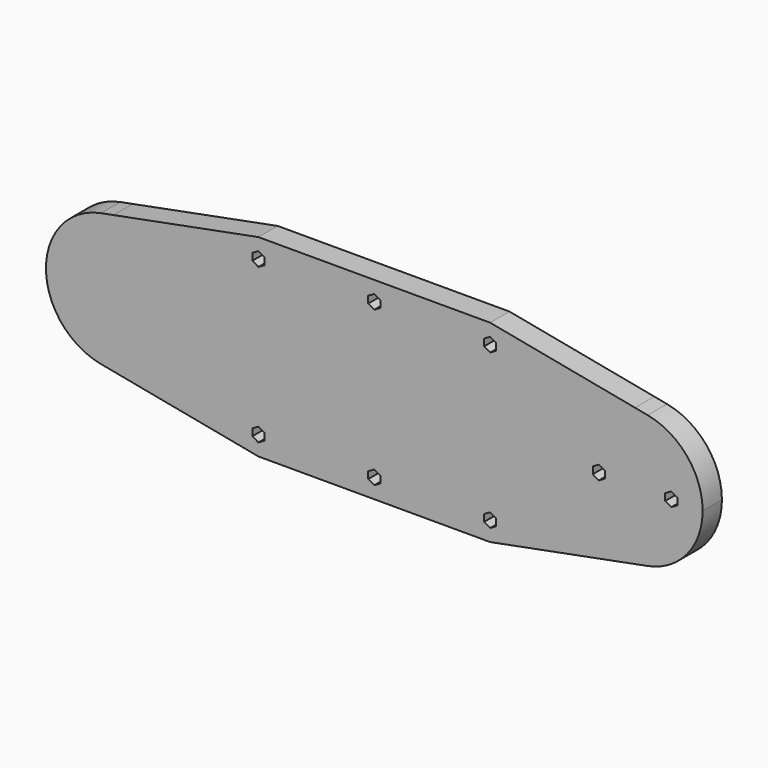
from build123d import *

# Parameters (mm, degrees)
F1_DEPTH = 6.35


with BuildPart() as f1:
    # F0 (on Front) → F1 (new body)
    with BuildSketch(Plane.XZ):
        with BuildLine():
            Line((68.58, 18.1031430027), (30.48, 25.4))
            Line((30.48, 25.4), (-30.48, 25.4))
            Line((-30.48, 25.4), (-68.58, 18.1031430027))
            Line((-68.58, 18.1031430027), (-68.58, 17.78))
            ThreePointArc((-68.58, 17.78), (-65.5387583202, 17.5179693185), (-62.5871565312, 16.7396005675))
            Line((-62.5871565312, 16.7396005675), (-61.5696, 17.3270871047))
            Line((-61.5696, 17.3270871047), (-59.9821, 16.4105435523))
            Line((-59.9821, 16.4105435523), (-59.9821, 15.5629211779))
            ThreePointArc((-59.9821, 15.5629211779), (-53.2666224823, 9.0348696172), (-50.8, 0))
            ThreePointArc((-50.8, 0), (-53.2666224823, -9.0348696172), (-59.9821, -15.5629211779))
            Line((-59.9821, -15.5629211779), (-59.9821, -16.4105435523))
            Line((-59.9821, -16.4105435523), (-61.5696, -17.3270871047))
            Line((-61.5696, -17.3270871047), (-62.5871565312, -16.7396005675))
            ThreePointArc((-62.5871565312, -16.7396005675), (-65.5387583202, -17.5179693185), (-68.58, -17.78))
            Line((-68.58, -17.78), (-68.58, -18.1031430027))
            Line((-68.58, -18.1031430027), (-30.48, -25.4))
            Line((-30.48, -25.4), (30.48, -25.4))
            Line((30.48, -25.4), (68.58, -18.1031430027))
            Line((68.58, -18.1031430027), (68.58, -17.78))
            ThreePointArc((68.58, -17.78), (50.8, 0), (68.58, 17.78))
            Line((68.58, 17.78), (68.58, 18.1031430027))
        make_face()
        Polygon((-30.48, -18.4869128953), (-28.8925, -19.4034564477), (-28.8925, -21.2365435523), (-30.48, -22.1530871047), (-32.0675, -21.2365435523), (-32.0675, -19.4034564477), align=None, mode=Mode.SUBTRACT)
        Polygon((-19.05, -15.9469128953), (-17.4625, -16.8634564477), (-17.4625, -18.6965435523), (-19.05, -19.6130871047), (-20.6375, -18.6965435523), (-20.6375, -16.8634564477), align=None, mode=Mode.SUBTRACT)
        Polygon((-48.1514023938, -5.9139128953), (-46.5639023938, -6.8304564477), (-46.5639023938, -8.6635435523), (-48.1514023938, -9.5800871047), (-49.7389023938, -8.6635435523), (-49.7389023938, -6.8304564477), align=None, mode=Mode.SUBTRACT)
        Polygon((0, -18.4869128953), (1.5875, -19.4034564477), (1.5875, -21.2365435523), (0, -22.1530871047), (-1.5875, -21.2365435523), (-1.5875, -19.4034564477), align=None, mode=Mode.SUBTRACT)
        Polygon((30.48, -22.1530871047), (28.8925, -21.2365435523), (28.8925, -19.4034564477), (30.48, -18.4869128953), (32.0675, -19.4034564477), (32.0675, -21.2365435523), align=None, mode=Mode.SUBTRACT)
        Polygon((19.05, -19.6130871047), (17.4625, -18.6965435523), (17.4625, -16.8634564477), (19.05, -15.9469128953), (20.6375, -16.8634564477), (20.6375, -18.6965435523), align=None, mode=Mode.SUBTRACT)
        Polygon((-48.1514023938, 9.5800871047), (-46.5639023938, 8.6635435523), (-46.5639023938, 6.8304564477), (-48.1514023938, 5.9139128953), (-49.7389023938, 6.8304564477), (-49.7389023938, 8.6635435523), align=None, mode=Mode.SUBTRACT)
        Polygon((-19.05, 19.6130871047), (-17.4625, 18.6965435523), (-17.4625, 16.8634564477), (-19.05, 15.9469128953), (-20.6375, 16.8634564477), (-20.6375, 18.6965435523), align=None, mode=Mode.SUBTRACT)
        Polygon((-30.48, 22.1530871047), (-28.8925, 21.2365435523), (-28.8925, 19.4034564477), (-30.48, 18.4869128953), (-32.0675, 19.4034564477), (-32.0675, 21.2365435523), align=None, mode=Mode.SUBTRACT)
        Polygon((19.05, 19.6130871047), (20.6375, 18.6965435523), (20.6375, 16.8634564477), (19.05, 15.9469128953), (17.4625, 16.8634564477), (17.4625, 18.6965435523), align=None, mode=Mode.SUBTRACT)
        Polygon((0, 22.1530871047), (1.5875, 21.2365435523), (1.5875, 19.4034564477), (0, 18.4869128953), (-1.5875, 19.4034564477), (-1.5875, 21.2365435523), align=None, mode=Mode.SUBTRACT)
        Polygon((30.48, 18.4869128953), (28.8925, 19.4034564477), (28.8925, 21.2365435523), (30.48, 22.1530871047), (32.0675, 21.2365435523), (32.0675, 19.4034564477), align=None, mode=Mode.SUBTRACT)
        with BuildLine():
            ThreePointArc((-62.5871565312, 16.7396005675), (-65.5387583202, 17.5179693185), (-68.58, 17.78))
            Line((-68.58, 17.78), (-68.58, 7.3323484187))
            Line((-68.58, 7.3323484187), (-62.23, 3.6661742094))
            Line((-62.23, 3.6661742094), (-62.23, -3.6661742094))
            Line((-62.23, -3.6661742094), (-68.58, -7.3323484187))
            Line((-68.58, -7.3323484187), (-68.58, -17.78))
            ThreePointArc((-68.58, -17.78), (-65.5387583202, -17.5179693185), (-62.5871565312, -16.7396005675))
            Line((-62.5871565312, -16.7396005675), (-63.1571, -16.4105435523))
            Line((-63.1571, -16.4105435523), (-63.1571, -14.5774564477))
            Line((-63.1571, -14.5774564477), (-61.5696, -13.6609128953))
            Line((-61.5696, -13.6609128953), (-59.9821, -14.5774564477))
            Line((-59.9821, -14.5774564477), (-59.9821, -15.5629211779))
            ThreePointArc((-59.9821, -15.5629211779), (-53.2666224823, -9.0348696172), (-50.8, 0))
            ThreePointArc((-50.8, 0), (-53.2666224823, 9.0348696172), (-59.9821, 15.5629211779))
            Line((-59.9821, 15.5629211779), (-59.9821, 14.5774564477))
            Line((-59.9821, 14.5774564477), (-61.5696, 13.6609128953))
            Line((-61.5696, 13.6609128953), (-63.1571, 14.5774564477))
            Line((-63.1571, 14.5774564477), (-63.1571, 16.4105435523))
            Line((-63.1571, 16.4105435523), (-62.5871565312, 16.7396005675))
        make_face()
        with BuildLine():
            Line((-68.58, 7.3323484187), (-68.58, 17.78))
            ThreePointArc((-68.58, 17.78), (-70.259720977, 17.7004784523), (-71.9244167559, 17.4626251338))
            ThreePointArc((-71.9244167559, 17.4626251338), (-86.36, 0), (-71.9244167559, -17.4626251338))
            ThreePointArc((-71.9244167559, -17.4626251338), (-70.259720977, -17.7004784523), (-68.58, -17.78))
            Line((-68.58, -17.78), (-68.58, -7.3323484187))
            Line((-68.58, -7.3323484187), (-74.93, -3.6661742094))
            Line((-74.93, -3.6661742094), (-74.93, 3.6661742094))
            Line((-74.93, 3.6661742094), (-68.58, 7.3323484187))
        make_face()
        Polygon((-74.9877976062, -9.5800871047), (-76.5752976062, -8.6635435523), (-76.5752976062, -6.8304564477), (-74.9877976062, -5.9139128953), (-73.4002976062, -6.8304564477), (-73.4002976062, -8.6635435523), align=None, mode=Mode.SUBTRACT)
        Polygon((-74.9877976062, 9.5800871047), (-73.4002976062, 8.6635435523), (-73.4002976062, 6.8304564477), (-74.9877976062, 5.9139128953), (-76.5752976062, 6.8304564477), (-76.5752976062, 8.6635435523), align=None, mode=Mode.SUBTRACT)
        with BuildLine():
            Line((68.58, -17.78), (68.58, 17.78))
            ThreePointArc((68.58, 17.78), (50.8, 0), (68.58, -17.78))
        make_face()
        Polygon((59.055, -1.8330871047), (57.4675, -0.9165435523), (57.4675, 0.9165435523), (59.055, 1.8330871047), (60.6425, 0.9165435523), (60.6425, -0.9165435523), align=None, mode=Mode.SUBTRACT)
        with BuildLine():
            ThreePointArc((71.9244167559, 17.4626251338), (70.259720977, 17.7004784523), (68.58, 17.78))
            Line((68.58, 17.78), (68.58, -17.78))
            ThreePointArc((68.58, -17.78), (70.259720977, -17.7004784523), (71.9244167559, -17.4626251338))
            ThreePointArc((71.9244167559, -17.4626251338), (82.2838704372, -11.3283862505), (86.36, 0))
            ThreePointArc((86.36, 0), (82.2838704372, 11.3283862505), (71.9244167559, 17.4626251338))
        make_face()
        Polygon((78.105, 1.8330871047), (79.6925, 0.9165435523), (79.6925, -0.9165435523), (78.105, -1.8330871047), (76.5175, -0.9165435523), (76.5175, 0.9165435523), align=None, mode=Mode.SUBTRACT)
        with BuildLine():
            ThreePointArc((-68.58, -17.78), (-70.259720977, -17.7004784523), (-71.9244167559, -17.4626251338))
            Line((-71.9244167559, -17.4626251338), (-68.58, -18.1031430027))
            Line((-68.58, -18.1031430027), (-68.58, -17.78))
        make_face()
        with BuildLine():
            Line((-68.58, 17.78), (-68.58, 18.1031430027))
            Line((-68.58, 18.1031430027), (-71.9244167559, 17.4626251338))
            ThreePointArc((-71.9244167559, 17.4626251338), (-70.259720977, 17.7004784523), (-68.58, 17.78))
        make_face()
        with BuildLine():
            Line((71.9244167559, 17.4626251338), (68.58, 18.1031430027))
            Line((68.58, 18.1031430027), (68.58, 17.78))
            ThreePointArc((68.58, 17.78), (70.259720977, 17.7004784523), (71.9244167559, 17.4626251338))
        make_face()
        with BuildLine():
            ThreePointArc((71.9244167559, -17.4626251338), (70.259720977, -17.7004784523), (68.58, -17.78))
            Line((68.58, -17.78), (68.58, -18.1031430027))
            Line((68.58, -18.1031430027), (71.9244167559, -17.4626251338))
        make_face()
        Polygon((-73.4002976062, 6.8304564477), (-73.4002976062, 8.6635435523), (-74.9877976062, 9.5800871047), (-76.5752976062, 8.6635435523), (-76.5752976062, 6.8304564477), (-74.9877976062, 5.9139128953), align=None)
        Polygon((-76.5752976062, -6.8304564477), (-76.5752976062, -8.6635435523), (-74.9877976062, -9.5800871047), (-73.4002976062, -8.6635435523), (-73.4002976062, -6.8304564477), (-74.9877976062, -5.9139128953), align=None)
        Polygon((-68.58, -7.3323484187), (-68.58, 7.3323484187), (-74.93, 3.6661742094), (-74.93, -3.6661742094), align=None)
        Polygon((-62.23, 3.6661742094), (-68.58, 7.3323484187), (-68.58, -7.3323484187), (-62.23, -3.6661742094), align=None)
        with BuildLine():
            ThreePointArc((-59.9821, 15.5629211779), (-61.260943207, 16.2036973454), (-62.5871565312, 16.7396005675))
            Line((-62.5871565312, 16.7396005675), (-63.1571, 16.4105435523))
            Line((-63.1571, 16.4105435523), (-63.1571, 14.5774564477))
            Line((-63.1571, 14.5774564477), (-61.5696, 13.6609128953))
            Line((-61.5696, 13.6609128953), (-59.9821, 14.5774564477))
            Line((-59.9821, 14.5774564477), (-59.9821, 15.5629211779))
        make_face()
        with BuildLine():
            Line((-61.5696, 17.3270871047), (-62.5871565312, 16.7396005675))
            ThreePointArc((-62.5871565312, 16.7396005675), (-61.260943207, 16.2036973454), (-59.9821, 15.5629211779))
            Line((-59.9821, 15.5629211779), (-59.9821, 16.4105435523))
            Line((-59.9821, 16.4105435523), (-61.5696, 17.3270871047))
        make_face()
        Polygon((-46.5639023938, 6.8304564477), (-46.5639023938, 8.6635435523), (-48.1514023938, 9.5800871047), (-49.7389023938, 8.6635435523), (-49.7389023938, 6.8304564477), (-48.1514023938, 5.9139128953), align=None)
        Polygon((-46.5639023938, -8.6635435523), (-46.5639023938, -6.8304564477), (-48.1514023938, -5.9139128953), (-49.7389023938, -6.8304564477), (-49.7389023938, -8.6635435523), (-48.1514023938, -9.5800871047), align=None)
        with BuildLine():
            Line((-63.1571, -16.4105435523), (-62.5871565312, -16.7396005675))
            ThreePointArc((-62.5871565312, -16.7396005675), (-61.260943207, -16.2036973454), (-59.9821, -15.5629211779))
            Line((-59.9821, -15.5629211779), (-59.9821, -14.5774564477))
            Line((-59.9821, -14.5774564477), (-61.5696, -13.6609128953))
            Line((-61.5696, -13.6609128953), (-63.1571, -14.5774564477))
            Line((-63.1571, -14.5774564477), (-63.1571, -16.4105435523))
        make_face()
        with BuildLine():
            ThreePointArc((-59.9821, -15.5629211779), (-61.260943207, -16.2036973454), (-62.5871565312, -16.7396005675))
            Line((-62.5871565312, -16.7396005675), (-61.5696, -17.3270871047))
            Line((-61.5696, -17.3270871047), (-59.9821, -16.4105435523))
            Line((-59.9821, -16.4105435523), (-59.9821, -15.5629211779))
        make_face()
        Polygon((-17.4625, 16.8634564477), (-17.4625, 18.6965435523), (-19.05, 19.6130871047), (-20.6375, 18.6965435523), (-20.6375, 16.8634564477), (-19.05, 15.9469128953), align=None)
        Polygon((-17.4625, -18.6965435523), (-17.4625, -16.8634564477), (-19.05, -15.9469128953), (-20.6375, -16.8634564477), (-20.6375, -18.6965435523), (-19.05, -19.6130871047), align=None)
        Polygon((17.4625, -16.8634564477), (17.4625, -18.6965435523), (19.05, -19.6130871047), (20.6375, -18.6965435523), (20.6375, -16.8634564477), (19.05, -15.9469128953), align=None)
        Polygon((20.6375, 16.8634564477), (20.6375, 18.6965435523), (19.05, 19.6130871047), (17.4625, 18.6965435523), (17.4625, 16.8634564477), (19.05, 15.9469128953), align=None)
    extrude(amount=F1_DEPTH)


solid = f1.part
